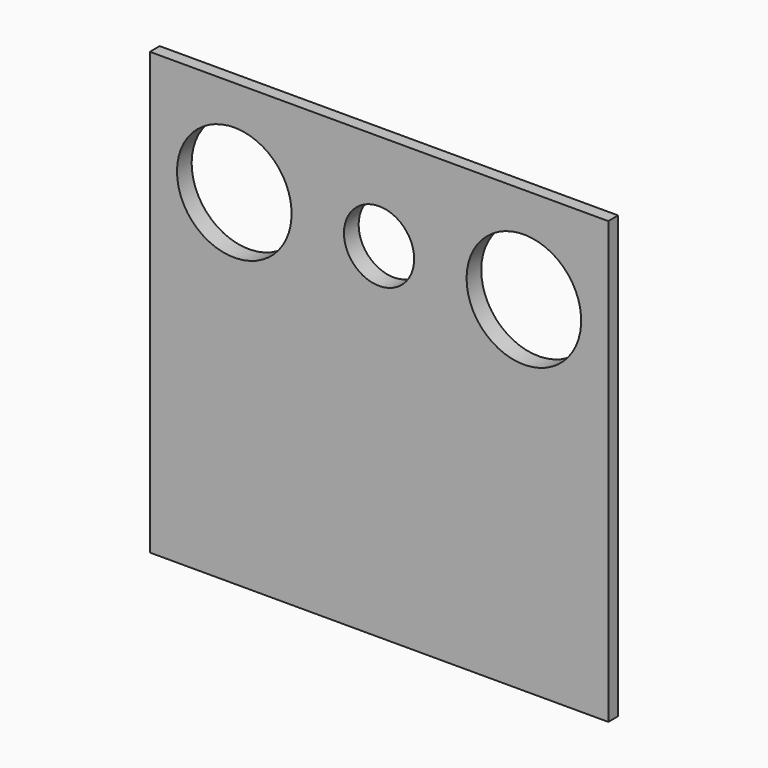
from build123d import *

# Parameters (mm, degrees)
F0_W     = 482.6
F0_H     = 464.185
F1_DEPTH = 19.304
F3_D     = 73.914
F4_D     = 120.65
F5_W     = 19.304
F5_H     = 19.304
F5_W_2   = 443.992
F5_H_2   = 145.415
F5_H_3   = 280.162
F6_DEPTH = 6.35


with BuildPart() as f1:
    # F0 (on Front) → F1 (new body)
    with BuildSketch(Plane.XZ):
        Rectangle(F0_W, F0_H)
    extrude(amount=F1_DEPTH)

    # F3 (through all)
    with Locations(Plane.XZ.offset(19.304)):
        with Locations((0, 130.4925)):
            Hole(F3_D / 2)

    # F4 (through all)
    with Locations(Plane.XZ.offset(19.304)):
        with Locations((-152.444478, 130.4925), (152.444478, 130.4925)):
            Hole(F4_D / 2)

    # F5 (on face) → F6 (cut)
    with BuildSketch(Plane(origin=(0, 0, 0), x_dir=(-1, 0, 0), z_dir=(0, 1, 0))):
        with Locations((-231.648, 222.4405)):
            Rectangle(F5_W, F5_H)
        with Locations((0, 222.4405)):
            Rectangle(F5_W_2, F5_H)
        with Locations((-231.648, 140.081)):
            Rectangle(F5_W, F5_H_2)
        with Locations((231.648, 222.4405)):
            Rectangle(F5_W, F5_H)
        with Locations((-231.648, 57.7215)):
            Rectangle(F5_W, F5_H)
        with Locations((0, 57.7215)):
            Rectangle(F5_W_2, F5_H)
        with Locations((231.648, 140.081)):
            Rectangle(F5_W, F5_H_2)
        with Locations((-231.648, -92.0115)):
            Rectangle(F5_W, F5_H_3)
        with Locations((231.648, 57.7215)):
            Rectangle(F5_W, F5_H)
        with Locations((231.648, -92.0115)):
            Rectangle(F5_W, F5_H_3)
    extrude(amount=-F6_DEPTH, mode=Mode.SUBTRACT)


solid = f1.part
